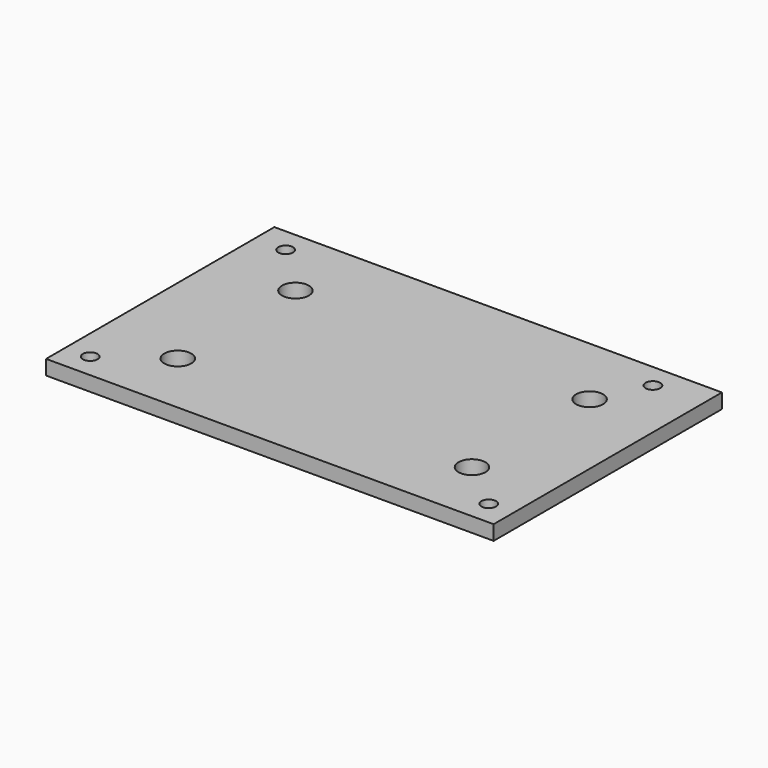
from build123d import *

# Parameters (mm, degrees)
SKETCH_W      = 91.28
SKETCH_H      = 58.2
SKETCH_R      = 1.5
SKETCH_R_2    = 2.75
PAD_DEPTH     = 3
SKETCH001_R   = 5
SKETCH001_R_2 = 2.75
PAD001_DEPTH  = 4


with BuildPart() as part:
    # Sketch → Pad (new body)
    with BuildSketch(Plane.XY):
        with Locations((39.34, -24.1)):
            Rectangle(SKETCH_W, SKETCH_H)
        Circle(SKETCH_R, mode=Mode.SUBTRACT)
        with Locations((-1.3, -48.2)):
            Circle(SKETCH_R, mode=Mode.SUBTRACT)
        with Locations((74.9, 0)):
            Circle(SKETCH_R, mode=Mode.SUBTRACT)
        with Locations((79.98, -48.2)):
            Circle(SKETCH_R, mode=Mode.SUBTRACT)
        with Locations((10, -10)):
            Circle(SKETCH_R_2, mode=Mode.SUBTRACT)
        with Locations((70, -10)):
            Circle(SKETCH_R_2, mode=Mode.SUBTRACT)
        with Locations((70, -40)):
            Circle(SKETCH_R_2, mode=Mode.SUBTRACT)
        with Locations((10, -40)):
            Circle(SKETCH_R_2, mode=Mode.SUBTRACT)
    extrude(amount=PAD_DEPTH)

    # Sketch001 → Pad001 (join)
    with BuildSketch(Plane.XY):
        with Locations((10, -10)):
            Circle(SKETCH001_R)
        with Locations((10, -10)):
            Circle(SKETCH001_R_2, mode=Mode.SUBTRACT)
        with Locations((70, -10)):
            Circle(SKETCH001_R)
        with Locations((70, -10)):
            Circle(SKETCH001_R_2, mode=Mode.SUBTRACT)
        with Locations((70, -40)):
            Circle(SKETCH001_R)
        with Locations((70, -40)):
            Circle(SKETCH001_R_2, mode=Mode.SUBTRACT)
        with Locations((10, -40)):
            Circle(SKETCH001_R)
        with Locations((10, -40)):
            Circle(SKETCH001_R_2, mode=Mode.SUBTRACT)
    extrude(amount=-PAD001_DEPTH)


solid = part.part
